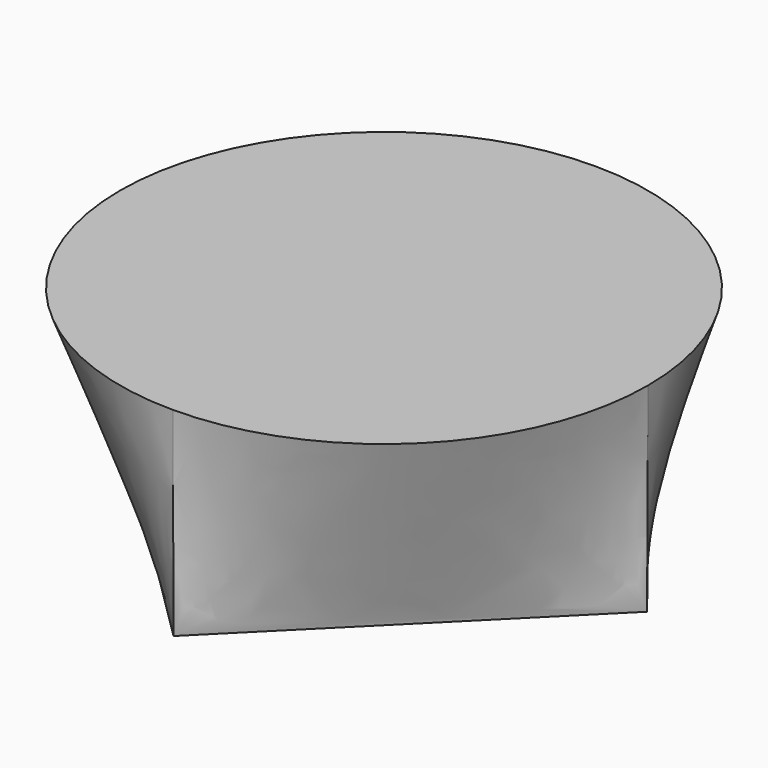
from build123d import *

# Parameters (mm, degrees)
F1_R = 33.611671


with BuildPart() as f3:
    # F1 (on offset) → F3 section 0
    with BuildSketch(Plane.XY.offset(25.4)):
        Circle(F1_R)
    # F2 (on Top) → F3 section 1
    with BuildSketch(Plane.XY):
        Polygon((0, 33.501722), (-33.501726, 0), (0, -33.501714), (33.501718, 0), align=None)
    loft()


solid = f3.part
